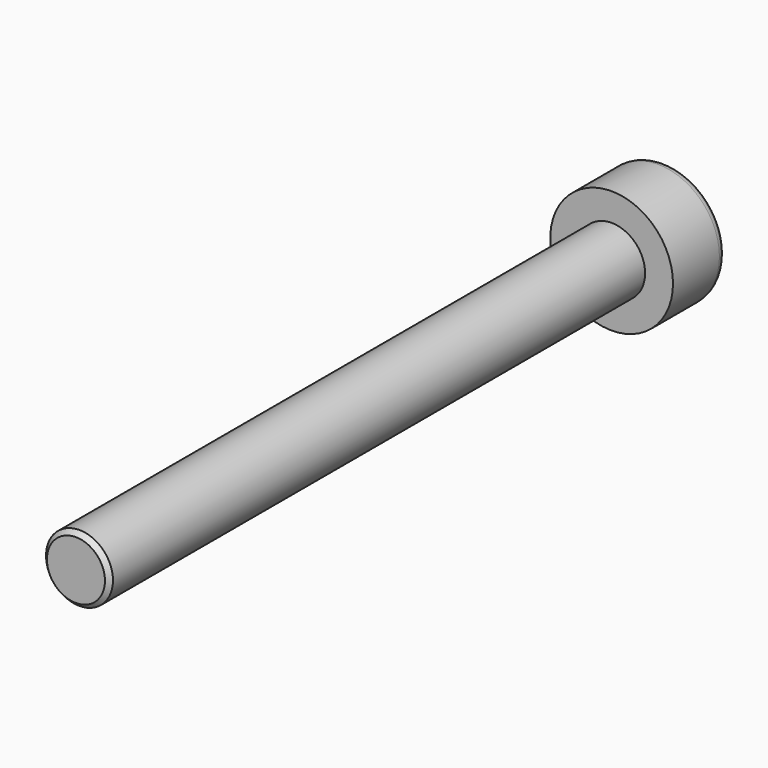
from build123d import *

# Parameters (mm, degrees)
F0_R     = 2.75
F1_DEPTH = 3
F2_R     = 1.5
F3_DEPTH = 30
F4_SIZE  = 0.2
F6_DEPTH = 2
F7_R     = 0.4


with BuildPart() as f1:
    # F0 (on Front) → F1 (new body)
    with BuildSketch(Plane.XZ):
        Circle(F0_R)
    extrude(amount=F1_DEPTH)

    # F2 (on face) → F3 (join)
    with BuildSketch(Plane.XZ.offset(3)):
        Circle(F2_R)
    extrude(amount=F3_DEPTH)

    # F4
    f4_edges = [f1.edges().sort_by_distance(p)[0] for p in [
        (-1.5, -33, 0),
    ]]
    chamfer(f4_edges, length=F4_SIZE)

    # F5 (on face) → F6 (cut)
    with BuildSketch(Plane(origin=(0, 0, 0), x_dir=(-1, 0, 0), z_dir=(0, 1, 0))):
        Polygon((1.443376, 0), (0.721688, 1.25), (-0.721688, 1.25), (-1.443376, 0), (-0.721688, -1.25), (0.721688, -1.25), align=None)
    extrude(amount=-F6_DEPTH, mode=Mode.SUBTRACT)

    # F7
    f7_edges = [f1.edges().sort_by_distance(p)[0] for p in [
        (-2.75, 0, 0),
    ]]
    fillet(f7_edges, radius=F7_R)


solid = f1.part
